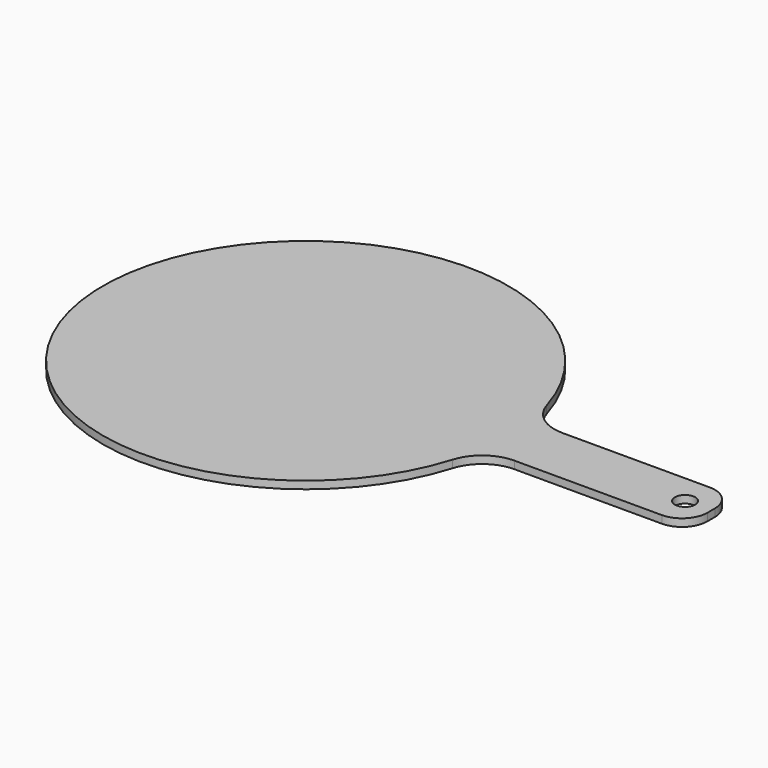
from build123d import *

# Parameters (mm, degrees)
F0_R     = 2
F1_DEPTH = 1.5


with BuildPart() as f1:
    # F0 (on Top) → F1 (new body)
    with BuildSketch(Plane.XY):
        with BuildLine():
            ThreePointArc((45.938947, 5.914495), (41.172012, 7.48983), (38.282456, 11.595413))
            ThreePointArc((38.282456, 11.595413), (-40, 0), (38.282456, -11.595413))
            ThreePointArc((38.282456, -11.595413), (41.172012, -7.48983), (45.938947, -5.914495))
            Line((45.938947, -5.914495), (75, -5.914495))
            ThreePointArc((75, -5.914495), (78.535534, -4.450029), (80, -0.914495))
            Line((80, -0.914495), (80, 0.914495))
            ThreePointArc((80, 0.914495), (78.535534, 4.450029), (75, 5.914495))
            Line((75, 5.914495), (45.938947, 5.914495))
        make_face()
        with Locations((74.853092, 0)):
            Circle(F0_R, mode=Mode.SUBTRACT)
    extrude(amount=F1_DEPTH)


solid = f1.part
